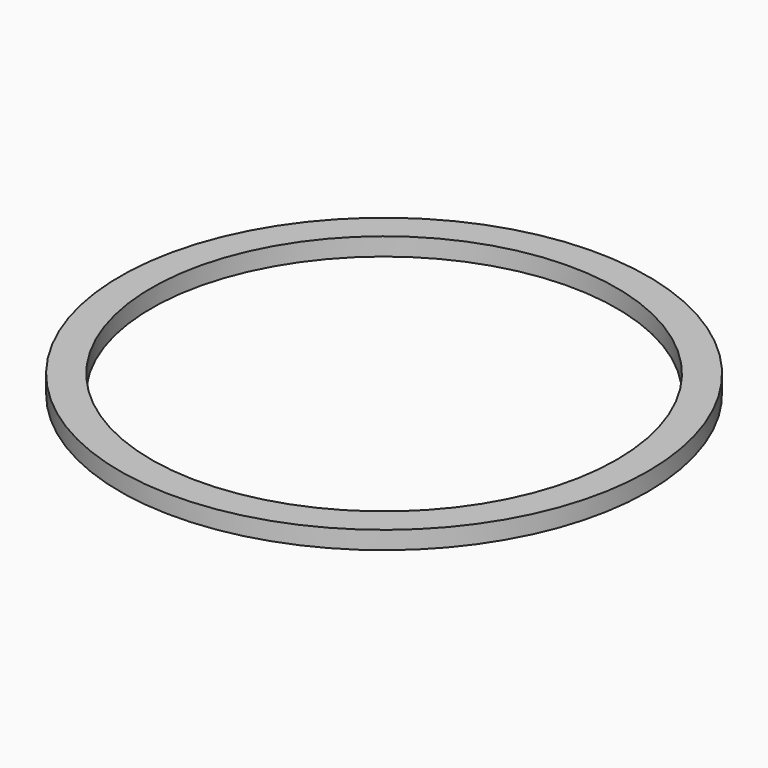
from build123d import *

# Parameters (mm, degrees)
SKETCH_R   = 14.75
SKETCH_R_2 = 13
PAD_DEPTH  = 1


with BuildPart() as part:
    # Sketch → Pad (new body)
    with BuildSketch(Plane.XY):
        Circle(SKETCH_R)
        Circle(SKETCH_R_2, mode=Mode.SUBTRACT)
    extrude(amount=PAD_DEPTH)


solid = part.part
